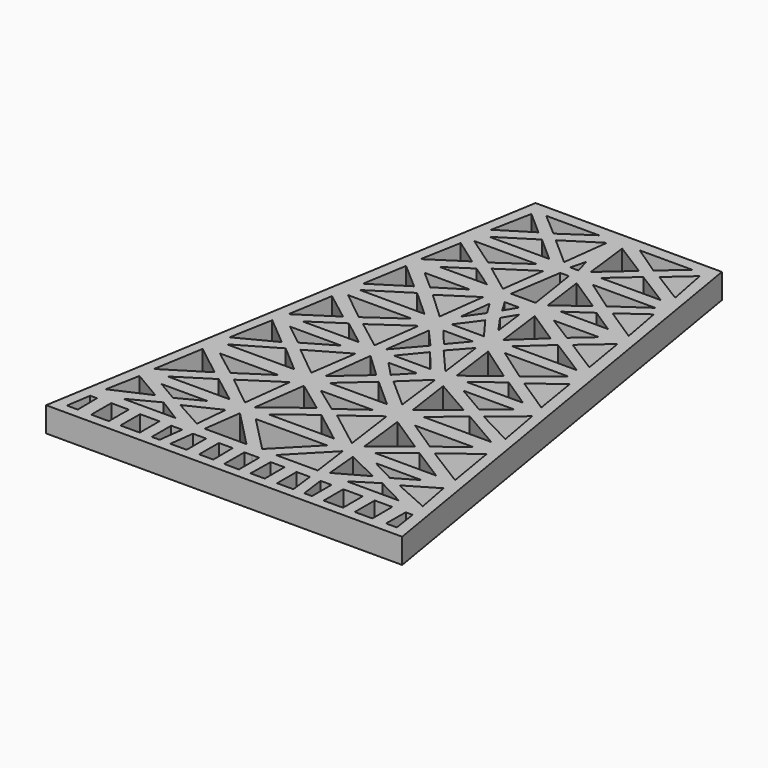
from build123d import *

# Parameters (mm, degrees)
F1_DEPTH = 2


with BuildPart() as f1:
    # F0 (on Top) → F1 (new body)
    with BuildSketch(Plane.XY):
        Polygon((7.5, 19.403141), (0, 19.403141), (-7.5, 19.403141), (-14.3275, -21.293713), (0, -21.293713), (14.3275, -21.293713), align=None)
        Polygon((-12.971168, -18.55226), (-12.423662, -18.553884), (-12.402981, -20.515077), (-13.275758, -20.512488), align=None, mode=Mode.SUBTRACT)
        Polygon((-11.311264, -20.519729), (-11.305433, -18.553884), (-11.305433, -18.513204), (-9.895893, -18.517385), (-9.895893, -20.523927), align=None, mode=Mode.SUBTRACT)
        Polygon((-8.958839, -20.529682), (-8.952978, -18.553884), (-7.399766, -18.553884), (-7.399766, -20.529682), align=None, mode=Mode.SUBTRACT)
        Polygon((-6.892386, -17.575271), (-11.091695, -17.575271), (-8.799251, -16.38342), align=None, mode=Mode.SUBTRACT)
        Polygon((-9.815779, -15.941735), (-12.753191, -17.252771), (-12.234412, -14.518525), align=None, mode=Mode.SUBTRACT)
        Polygon((-8.728574, -15.528117), (-10.460747, -14.511514), (-6.773207, -14.511514), align=None, mode=Mode.SUBTRACT)
        Polygon((-8.85821, -11.178372), (-12.113791, -13.205189), (-11.435162, -9.160728), align=None, mode=Mode.SUBTRACT)
        Polygon((-5.822724, -13.461979), (-10.802387, -13.461979), (-8.078705, -11.73781), align=None, mode=Mode.SUBTRACT)
        Polygon((-6.448172, -18.553884), (-5.568712, -18.553884), (-5.819986, -20.51392), (-6.448172, -20.51392), align=None, mode=Mode.SUBTRACT)
        Polygon((-4.95309, -20.51392), (-4.701816, -18.553884), (-3.640182, -18.553884), (-3.640182, -20.51392), align=None, mode=Mode.SUBTRACT)
        Polygon((-2.640474, -18.522762), (-1.529484, -18.522762), (-1.497832, -20.507349), (-2.640474, -20.507349), align=None, mode=Mode.SUBTRACT)
        Polygon((-7.754681, -16.004832), (-5.111711, -14.735863), (-5.350069, -17.343913), align=None, mode=Mode.SUBTRACT)
        Polygon((-7.290028, -11.205886), (-4.327908, -9.270781), (-4.795611, -13.205189), align=None, mode=Mode.SUBTRACT)
        Polygon((-4.551564, -17.56595), (-4.134644, -14.531548), (-1.186143, -17.56595), align=None, mode=Mode.SUBTRACT)
        Polygon((-3.908643, -13.325322), (-3.328548, -9.103312), (-0.814806, -10.956485), align=None, mode=Mode.SUBTRACT)
        Polygon((-10.206295, -8.968133), (-5.501752, -8.968133), (-8.02368, -10.628105), align=None, mode=Mode.SUBTRACT)
        Polygon((-10.645076, -7.730521), (-7.40612, -5.847782), (-5.209703, -7.730521), align=None, mode=Mode.SUBTRACT)
        Polygon((-8.134026, -5.332425), (-11.091695, -6.87013), (-10.460747, -3.377954), align=None, mode=Mode.SUBTRACT)
        Polygon((-7.290028, -4.753589), (-9.025598, -3.367832), (-4.906051, -3.367832), align=None, mode=Mode.SUBTRACT)
        Polygon((-4.076068, -7.436975), (-6.566016, -5.412526), (-3.529494, -3.671499), align=None, mode=Mode.SUBTRACT)
        Polygon((-4.327908, -2.319265), (-8.873277, -2.319265), (-6.434302, -0.70942), align=None, mode=Mode.SUBTRACT)
        Polygon((-2.605217, -3.311711), (-0.688344, -5.128374), (-3.095579, -7.245957), align=None, mode=Mode.SUBTRACT)
        Polygon((-0.591915, -18.511448), (0, -18.513204), (0.591915, -18.511448), (0.597956, -20.548154), (0, -20.549928), (-0.597956, -20.548154), align=None, mode=Mode.SUBTRACT)
        Polygon((1.497832, -20.507349), (1.529484, -18.522762), (2.640474, -18.522762), (2.640474, -20.507349), align=None, mode=Mode.SUBTRACT)
        Polygon((4.701816, -18.553884), (4.95309, -20.51392), (3.640182, -20.51392), (3.640182, -18.553884), align=None, mode=Mode.SUBTRACT)
        Polygon((5.819986, -20.51392), (5.568712, -18.553884), (6.448172, -18.553884), (6.448172, -20.51392), align=None, mode=Mode.SUBTRACT)
        Polygon((-2.866471, -14.531548), (0, -14.531548), (2.866471, -14.531548), (0, -17.464346), align=None, mode=Mode.SUBTRACT)
        Polygon((4.134644, -14.531548), (4.551564, -17.56595), (1.186143, -17.56595), align=None, mode=Mode.SUBTRACT)
        Polygon((2.628689, -13.532811), (0, -13.532811), (-2.628689, -13.532811), (0, -11.520119), align=None, mode=Mode.SUBTRACT)
        Polygon((3.328548, -9.103312), (3.908643, -13.325322), (0.814806, -10.956485), align=None, mode=Mode.SUBTRACT)
        Polygon((5.111711, -14.735863), (7.754681, -16.004832), (5.350069, -17.343913), align=None, mode=Mode.SUBTRACT)
        Polygon((4.327908, -9.270781), (7.290028, -11.205886), (4.795611, -13.205189), align=None, mode=Mode.SUBTRACT)
        Polygon((8.952978, -18.553884), (8.958839, -20.529682), (7.399766, -20.529682), (7.399766, -18.553884), align=None, mode=Mode.SUBTRACT)
        Polygon((9.895893, -20.523927), (9.895893, -18.517385), (11.305433, -18.513204), (11.305433, -18.553884), (11.311264, -20.519729), align=None, mode=Mode.SUBTRACT)
        Polygon((8.799251, -16.38342), (11.091695, -17.575271), (6.892386, -17.575271), align=None, mode=Mode.SUBTRACT)
        Polygon((12.971168, -18.55226), (13.275758, -20.512488), (12.402981, -20.515077), (12.423662, -18.553884), align=None, mode=Mode.SUBTRACT)
        Polygon((10.460747, -14.511514), (8.728574, -15.528117), (6.773207, -14.511514), align=None, mode=Mode.SUBTRACT)
        Polygon((5.822724, -13.461979), (8.078705, -11.73781), (10.802387, -13.461979), align=None, mode=Mode.SUBTRACT)
        Polygon((8.85821, -11.178372), (11.435162, -9.160728), (12.113791, -13.205189), align=None, mode=Mode.SUBTRACT)
        Polygon((12.234412, -14.518525), (12.753191, -17.252771), (9.815779, -15.941735), align=None, mode=Mode.SUBTRACT)
        Polygon((2.089716, -8.96716), (0, -10.47319), (-2.089716, -8.96716), (0, -8.96716), align=None, mode=Mode.SUBTRACT)
        Polygon((-2.315457, -7.803215), (0, -5.741358), (2.315457, -7.803215), (0, -7.803215), align=None, mode=Mode.SUBTRACT)
        Polygon((-1.145273, -3.334001), (0, -3.334001), (1.145273, -3.334001), (0, -4.53768), align=None, mode=Mode.SUBTRACT)
        Polygon((2.605217, -3.311711), (3.095579, -7.245957), (0.688344, -5.128374), align=None, mode=Mode.SUBTRACT)
        Polygon((-1.48165, -2.369677), (0, -0.57993), (1.48165, -2.369677), (0, -2.369677), align=None, mode=Mode.SUBTRACT)
        Polygon((6.566016, -5.412526), (4.076068, -7.436975), (3.529494, -3.671499), align=None, mode=Mode.SUBTRACT)
        Polygon((4.906051, -3.367832), (9.025598, -3.367832), (7.290028, -4.753589), align=None, mode=Mode.SUBTRACT)
        Polygon((4.327908, -2.319265), (6.434302, -0.70942), (8.873277, -2.319265), align=None, mode=Mode.SUBTRACT)
        Polygon((10.206295, -8.968133), (8.02368, -10.628105), (5.501752, -8.968133), align=None, mode=Mode.SUBTRACT)
        Polygon((5.209703, -7.730521), (7.40612, -5.847782), (10.645076, -7.730521), align=None, mode=Mode.SUBTRACT)
        Polygon((11.091695, -6.87013), (8.134026, -5.332425), (10.460747, -3.377954), align=None, mode=Mode.SUBTRACT)
        Polygon((-7.290028, -0.221466), (-10.17028, -2.103087), (-9.574244, 1.524282), align=None, mode=Mode.SUBTRACT)
        Polygon((-9.107714, 4.058773), (-8.507132, 7.638682), (-6.375677, 5.78823), align=None, mode=Mode.SUBTRACT)
        Polygon((-6.467244, 0.340663), (-8.873277, 2.258068), (-3.74166, 2.258068), align=None, mode=Mode.SUBTRACT)
        Polygon((-5.668366, -0.232678), (-2.792404, 1.769318), (-3.305717, -2.038369), align=None, mode=Mode.SUBTRACT)
        Polygon((-1.896525, 1.665389), (-0.529878, 0.127833), (-2.394605, -2.029303), align=None, mode=Mode.SUBTRACT)
        Polygon((-8.730401, 3.264322), (-5.668366, 5.202677), (-3.529494, 3.264322), align=None, mode=Mode.SUBTRACT)
        Polygon((-5.501752, 6.312785), (-7.017624, 7.638682), (-3.372025, 7.638682), align=None, mode=Mode.SUBTRACT)
        Polygon((-4.739631, 5.616013), (-2.071792, 7.358869), (-2.557322, 3.581418), align=None, mode=Mode.SUBTRACT)
        Polygon((-1.514585, 4.40008), (-1.193858, 6.907714), (-0.523245, 5.806979), align=None, mode=Mode.SUBTRACT)
        Polygon((-5.652384, 10.707543), (-8.375851, 8.928347), (-7.770588, 12.220776), align=None, mode=Mode.SUBTRACT)
        Polygon((-4.8231, 10.128952), (-2.974337, 8.854979), (-6.773207, 8.854979), align=None, mode=Mode.SUBTRACT)
        Polygon((-4.766242, 11.218331), (-7.290028, 12.963637), (-2.259026, 12.963637), align=None, mode=Mode.SUBTRACT)
        Polygon((-1.802529, 9.000237), (-4.076068, 10.707543), (-1.330575, 12.501129), align=None, mode=Mode.SUBTRACT)
        Polygon((-4.867257, 16.398574), (-7.40612, 14.817962), (-6.773207, 18.083704), align=None, mode=Mode.SUBTRACT)
        Polygon((-2.071792, 14.000231), (-6.900778, 14.000231), (-4.076068, 15.772295), align=None, mode=Mode.SUBTRACT)
        Polygon((-4.015276, 16.856997), (-5.888768, 18.464513), (-1.642924, 18.464513), align=None, mode=Mode.SUBTRACT)
        Polygon((-3.342597, 16.245684), (-0.6162, 17.971571), (-1.073634, 14.2396), align=None, mode=Mode.SUBTRACT)
        Polygon((1.896525, 1.665389), (2.394605, -2.029303), (0.529878, 0.127833), align=None, mode=Mode.SUBTRACT)
        Polygon((-1.196932, 2.242989), (0, 2.242989), (1.196932, 2.242989), (0, 0.819326), align=None, mode=Mode.SUBTRACT)
        Polygon((-1.303197, 3.211869), (0, 4.975961), (1.303197, 3.211869), (0, 3.211869), align=None, mode=Mode.SUBTRACT)
        Polygon((2.792404, 1.769318), (5.668366, -0.232678), (3.305717, -2.038369), align=None, mode=Mode.SUBTRACT)
        Polygon((6.467244, 0.340663), (3.74166, 2.258068), (8.873277, 2.258068), align=None, mode=Mode.SUBTRACT)
        Polygon((1.193858, 6.907714), (1.514585, 4.40008), (0.523245, 5.806979), align=None, mode=Mode.SUBTRACT)
        Polygon((2.071792, 7.358869), (4.739631, 5.616013), (2.557322, 3.581418), align=None, mode=Mode.SUBTRACT)
        Polygon((-0.588848, 7.665838), (0, 7.665838), (0.588848, 7.665838), (0, 6.674447), align=None, mode=Mode.SUBTRACT)
        Polygon((3.529494, 3.264322), (5.668366, 5.202677), (8.730401, 3.264322), align=None, mode=Mode.SUBTRACT)
        Polygon((3.372025, 7.638682), (7.017624, 7.638682), (5.501752, 6.312785), align=None, mode=Mode.SUBTRACT)
        Polygon((10.17028, -2.103087), (7.290028, -0.221466), (9.574244, 1.524282), align=None, mode=Mode.SUBTRACT)
        Polygon((9.107714, 4.058773), (6.375677, 5.78823), (8.507132, 7.638682), align=None, mode=Mode.SUBTRACT)
        Polygon((0.991352, 8.802632), (0, 8.802632), (-0.991352, 8.802632), (-0.350331, 12.948662), (0, 12.948662), (0.350331, 12.948662), align=None, mode=Mode.SUBTRACT)
        Polygon((4.076068, 10.707543), (1.802529, 9.000237), (1.330575, 12.501129), align=None, mode=Mode.SUBTRACT)
        Polygon((4.8231, 10.128952), (6.773207, 8.854979), (2.974337, 8.854979), align=None, mode=Mode.SUBTRACT)
        Polygon((8.375851, 8.928347), (5.652384, 10.707543), (7.770588, 12.220776), align=None, mode=Mode.SUBTRACT)
        Polygon((2.259026, 12.963637), (7.290028, 12.963637), (4.766242, 11.218331), align=None, mode=Mode.SUBTRACT)
        Polygon((0.32108, 13.921942), (0, 13.921942), (-0.32108, 13.921942), (0, 15.178155), align=None, mode=Mode.SUBTRACT)
        Polygon((1.073634, 14.2396), (0.6162, 17.971571), (3.342597, 16.245684), align=None, mode=Mode.SUBTRACT)
        Polygon((6.900778, 14.000231), (2.071792, 14.000231), (4.076068, 15.772295), align=None, mode=Mode.SUBTRACT)
        Polygon((6.773207, 18.083704), (7.40612, 14.817962), (4.867257, 16.398574), align=None, mode=Mode.SUBTRACT)
        Polygon((1.642924, 18.464513), (5.888768, 18.464513), (4.015276, 16.856997), align=None, mode=Mode.SUBTRACT)
    extrude(amount=F1_DEPTH)


solid = f1.part
